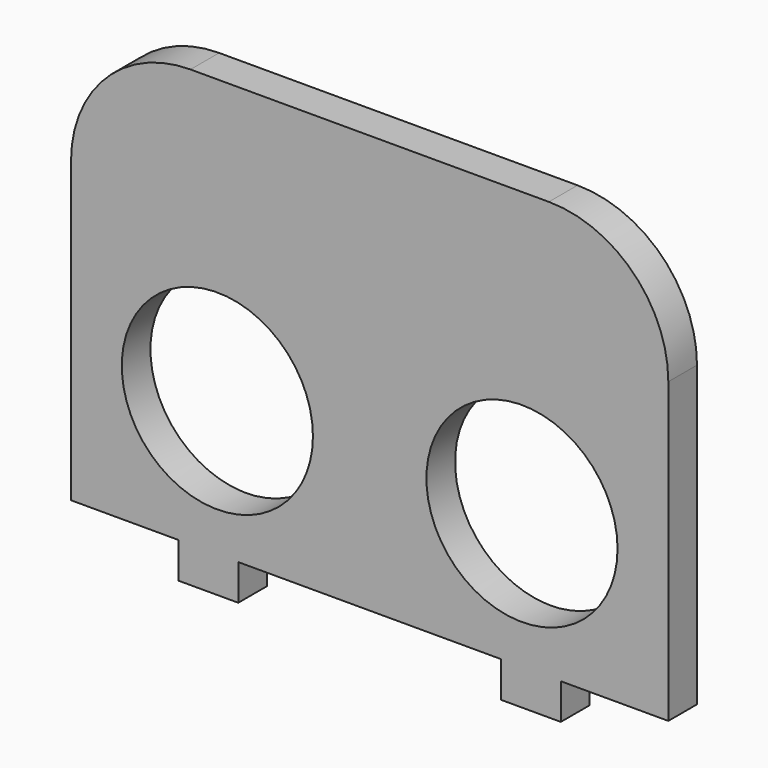
from build123d import *

# Parameters (mm, degrees)
F0_R     = 8
F0_W     = 5
F0_H     = 3
F1_DEPTH = 3


with BuildPart() as f1:
    # F0 (on Front) → F1 (new body)
    with BuildSketch(Plane.XZ):
        with BuildLine():
            Line((15, 17.5), (-15, 17.5))
            ThreePointArc((-15, 17.5), (-22.071068, 14.571068), (-25, 7.5))
            Line((-25, 7.5), (-25, -17.5))
            Line((-25, -17.5), (-16, -17.5))
            Line((-16, -17.5), (-11, -17.5))
            Line((-11, -17.5), (11, -17.5))
            Line((11, -17.5), (16, -17.5))
            Line((16, -17.5), (25, -17.5))
            Line((25, -17.5), (25, 7.5))
            ThreePointArc((25, 7.5), (22.071068, 14.571068), (15, 17.5))
        make_face()
        with Locations((-12.75, -6.2)):
            Circle(F0_R, mode=Mode.SUBTRACT)
        with Locations((12.75, -6.2)):
            Circle(F0_R, mode=Mode.SUBTRACT)
        with Locations((-13.5, -19)):
            Rectangle(F0_W, F0_H)
        with Locations((13.5, -19)):
            Rectangle(F0_W, F0_H)
    extrude(amount=F1_DEPTH)


solid = f1.part
